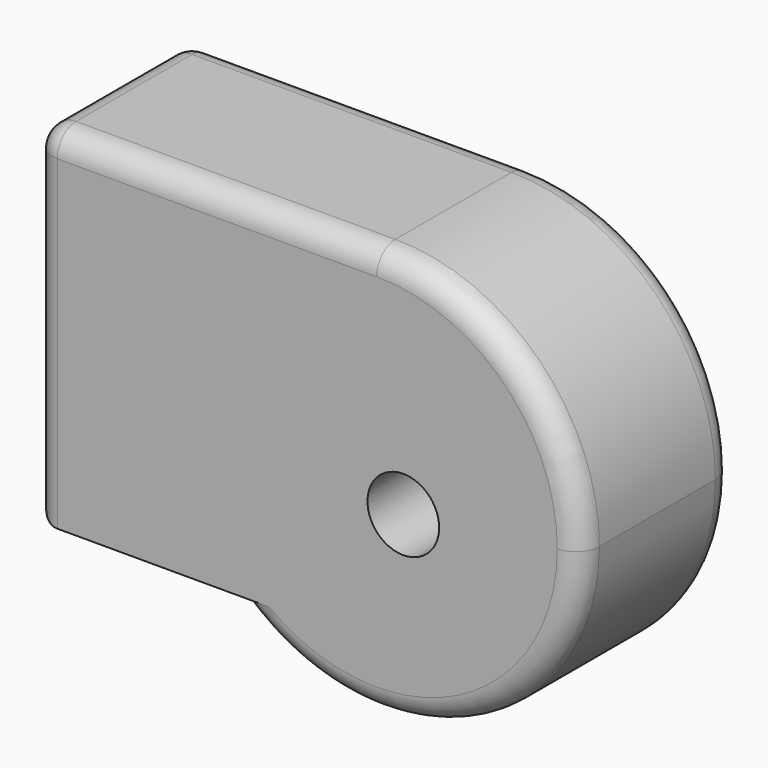
from build123d import *

# Parameters (mm, degrees)
F1_DEPTH = 41.656
F2_R     = 5.08
F3_R     = 7.781116
F4_DEPTH = 55.626


with BuildPart() as f1:
    # F0 (on Front) → F1 (new body)
    with BuildSketch(Plane.XZ):
        with BuildLine():
            Line((37.220769, -37.904616), (37.220769, 37.904616))
            ThreePointArc((37.220769, 37.904616), (-3.764667, 10.445012), (6.040904, -37.904616))
            Line((6.040904, -37.904616), (37.220769, -37.904616))
        make_face()
        with BuildLine():
            ThreePointArc((81.537427, -6.412042), (68.557378, 24.924568), (37.220769, 37.904616))
            Line((37.220769, 37.904616), (37.220769, -37.904616))
            Line((37.220769, -37.904616), (6.040904, -37.904616))
            ThreePointArc((6.040904, -37.904616), (54.282111, -47.312858), (81.537427, -6.412042))
        make_face()
        with BuildLine():
            Line((37.220769, 37.904616), (-37.220769, 37.904616))
            Line((-37.220769, 37.904616), (-37.220769, -37.904616))
            Line((-37.220769, -37.904616), (6.040904, -37.904616))
            ThreePointArc((6.040904, -37.904616), (-3.764667, 10.445012), (37.220769, 37.904616))
        make_face()
    extrude(amount=F1_DEPTH)

    # F2
    f2_edges = [f1.edges().sort_by_distance(p)[0] for p in [
        (0, -41.656, 37.904616),
        (37.220769, -20.828, 37.904616),
        (78.206204, 0, -23.269096),
        (-15.589932, 0, -37.904616),
        (-37.220769, 0, 0),
        (-37.220769, -20.828, 37.904616),
        (-37.220769, -41.656, 0),
        (-37.220769, -20.828, -37.904616),
    ]]
    fillet(f2_edges, radius=F2_R)

    # F3 (on face) → F4 (cut)
    with BuildSketch(Plane.XZ.offset(41.656)):
        with Locations((43.015637, -10.746155)):
            Circle(F3_R)
    extrude(amount=-F4_DEPTH, mode=Mode.SUBTRACT)


solid = f1.part
